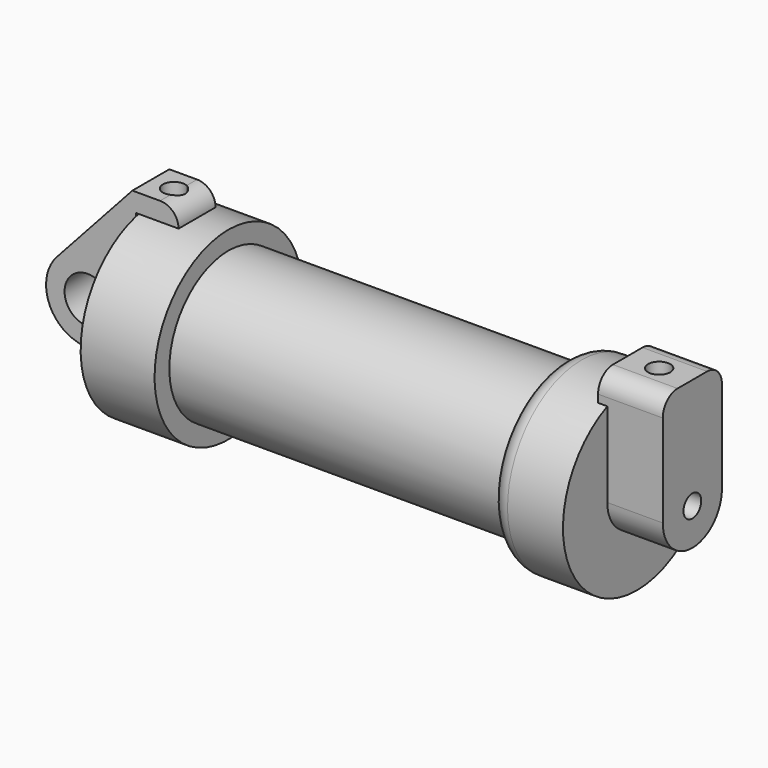
from build123d import *

# Parameters (mm, degrees)
F0_W     = 5.842
F0_H     = 12.7
F0_R     = 3.175
F2_DEPTH = 3.175
F3_R     = 1.524
F4_DEPTH = 7.62
F5_DEPTH = 1.27
F7_DEPTH = 17.78
F6_R     = 1.524
F8_DEPTH = 10.414


with BuildPart() as f1:
    # F0 (on Front) → F1 (revolve)
    with BuildSketch(Plane.XZ):
        with Locations((2.921, 6.35)):
            Rectangle(F0_W, F0_H)
        with BuildLine():
            Line((5.842, 12.7), (5.842, 0))
            Line((5.842, 0), (66.294, 0))
            Line((66.294, 0), (66.294, 12.7))
            Line((66.294, 12.7), (58.674, 12.7))
            ThreePointArc((58.674, 12.7), (56.8779487758, 11.9560512242), (56.134, 10.16))
            Line((56.134, 10.16), (10.16, 10.16))
            Line((10.16, 10.16), (10.16, 12.7))
            Line((10.16, 12.7), (5.842, 12.7))
        make_face()
    revolve(axis=Axis((33.147, 0, 0), (-1, 0, 0)))

    # F3 (on face) → F4 (join)
    with BuildSketch(Plane.YZ.offset(66.294)):
        with BuildLine():
            ThreePointArc((-5.08, 11.6397422652), (0, 12.7), (5.08, 11.6397422652))
            Line((5.08, 11.6397422652), (5.08, 12.7))
            ThreePointArc((5.08, 12.7), (4.3360512242, 14.4960512242), (2.54, 15.24))
            Line((2.54, 15.24), (-2.54, 15.24))
            ThreePointArc((-2.54, 15.24), (-4.3360512242, 14.4960512242), (-5.08, 12.7))
            Line((-5.08, 12.7), (-5.08, 11.6397422652))
        make_face()
        with BuildLine():
            ThreePointArc((-5.08, 0), (0, 5.08), (5.08, 0))
            Line((5.08, 0), (5.08, 11.6397422652))
            ThreePointArc((5.08, 11.6397422652), (0, 12.7), (-5.08, 11.6397422652))
            Line((-5.08, 11.6397422652), (-5.08, 0))
        make_face()
        with BuildLine():
            ThreePointArc((-5.08, 0), (0, -5.08), (5.08, 0))
            ThreePointArc((5.08, 0), (0, 5.08), (-5.08, 0))
        make_face()
        Circle(F3_R, mode=Mode.SUBTRACT)
    extrude(amount=F4_DEPTH)

    # F5 (add): a face of the model
    f5_faces = [f1.faces().sort_by_distance(p)[0] for p in [
        (66.294, 0, 13.6861486969),
    ]]
    extrude(f5_faces, amount=F5_DEPTH)

    # F6 (on face) → F8 (cut)
    with BuildSketch(Plane.XY.offset(15.24)):
        with Locations((69.4209039211, -0.0863659661)):
            Circle(F6_R)
    extrude(amount=-F8_DEPTH, mode=Mode.SUBTRACT)


with BuildPart() as f2:
    # F0 (on Front) → F2 (new body, symmetric)
    with BuildSketch(Plane.XZ):
        with BuildLine():
            Line((-0.9398, 0), (0, 0))
            Line((0, 0), (0, 12.7))
            Line((0, 12.7), (5.842, 12.7))
            ThreePointArc((5.842, 12.7), (5.0980512242, 14.4960512242), (3.302, 15.24))
            Line((3.302, 15.24), (-0.508, 15.24))
            Line((-0.508, 15.24), (-10.8806298187, 3.8475430269))
            ThreePointArc((-10.8806298187, 3.8475430269), (-4.5919612295, 5.3297205562), (-0.9398, 0))
        make_face()
        with BuildLine():
            Line((5.842, 0), (0, 0))
            Line((0, 0), (-0.9398, 0))
            ThreePointArc((-0.9398, 0), (-3.1957909266, -4.5493385486), (-8.1826630726, -5.5069827884))
            Line((-8.1826630726, -5.5069827884), (5.842, -9.398))
            Line((5.842, -9.398), (5.842, 0))
        make_face()
        with BuildLine():
            ThreePointArc((-8.1826630726, -5.5069827884), (-3.1957909266, -4.5493385486), (-0.9398, 0))
            ThreePointArc((-0.9398, 0), (-4.5919612295, 5.3297205562), (-10.8806298187, 3.8475430269))
            ThreePointArc((-10.8806298187, 3.8475430269), (-12.1459778134, -1.5837270034), (-8.1826630726, -5.5069827884))
        make_face()
        with Locations((-6.6548, 0)):
            Circle(F0_R, mode=Mode.SUBTRACT)
    extrude(amount=F2_DEPTH, both=True)

    # F6 (on face) → F7 (cut)
    with BuildSketch(Plane.XY.offset(15.24)):
        with BuildLine():
            Line((3.302, -1.3854064386), (3.302, 1.3854064386))
            ThreePointArc((3.302, 1.3854064386), (1.143, 0), (3.302, -1.3854064386))
        make_face()
        with BuildLine():
            ThreePointArc((3.302, -1.3854064386), (3.9496371272, -0.8230540687), (4.191, 0))
            ThreePointArc((4.191, 0), (3.9496371272, 0.8230540687), (3.302, 1.3854064386))
            Line((3.302, 1.3854064386), (3.302, -1.3854064386))
        make_face()
    extrude(amount=-F7_DEPTH, mode=Mode.SUBTRACT)


solid = Compound([f1.part, f2.part])
